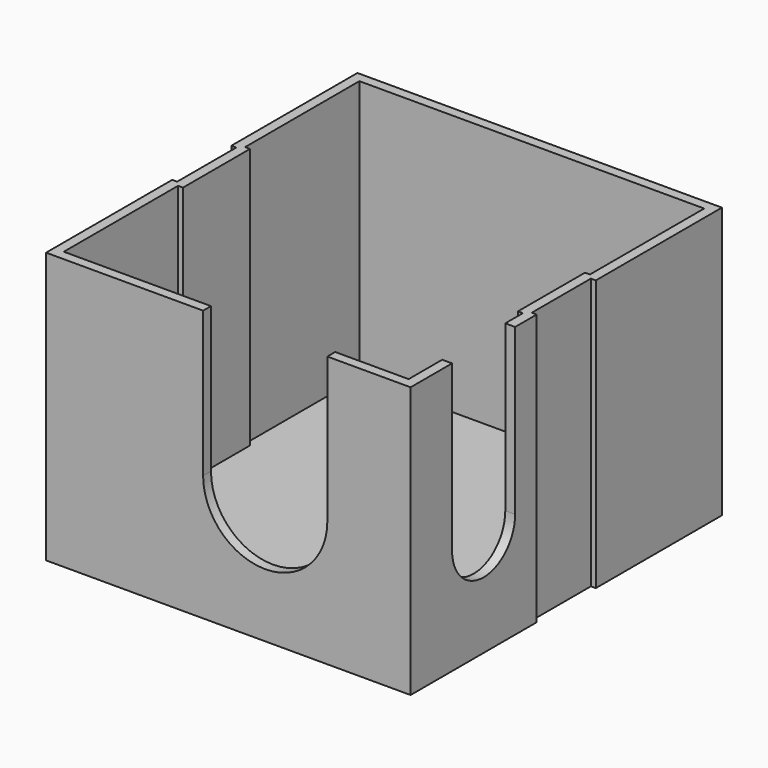
from build123d import *

# Parameters (mm, degrees)
F1_DEPTH = 2
F2_DEPTH = 55
F4_DEPTH = 3
F6_DEPTH = 3


with BuildPart() as f1:
    # F0 (on Top) → F1 (new body)
    with BuildSketch(Plane.XY):
        Polygon((-35, -37.5), (35, -37.5), (35, -8.5), (34, -8.5), (34, 0), (34, 8.5), (35, 8.5), (35, 37.5), (-35, 37.5), (-35, 8.5), (-34, 8.5), (-34, 0), (-34, -8.5), (-35, -8.5), align=None)
    extrude(amount=F1_DEPTH)

    # F0 (on Top) → F2 (join)
    with BuildSketch(Plane.XY):
        Polygon((-37, -39.5), (37, -39.5), (37, -7.5), (36, -7.5), (36, 0), (36, 7.5), (37, 7.5), (37, 39.5), (-37, 39.5), (-37, 7.5), (-36, 7.5), (-36, 0), (-36, -7.5), (-37, -7.5), align=None)
        Polygon((35, -8.5), (35, -37.5), (-35, -37.5), (-35, -8.5), (-34, -8.5), (-34, 0), (-34, 8.5), (-35, 8.5), (-35, 37.5), (35, 37.5), (35, 8.5), (34, 8.5), (34, 0), (34, -8.5), align=None, mode=Mode.SUBTRACT)
    extrude(amount=F2_DEPTH)

    # F3 (on face) → F4 (cut)
    with BuildSketch(Plane.XZ.offset(39.5)):
        with BuildLine():
            Line((-5.120877, 55), (-5.120877, 25.502008))
            ThreePointArc((-5.120877, 25.502008), (7.485725, 12.895406), (20.092327, 25.502008))
            Line((20.092327, 25.502008), (20.092327, 55))
            Line((20.092327, 55), (-5.120877, 55))
        make_face()
    extrude(amount=-F4_DEPTH, mode=Mode.SUBTRACT)

    # F5 (on face) → F6 (cut)
    with BuildSketch(Plane.YZ.offset(37)):
        with BuildLine():
            ThreePointArc((-28.975196, 21.504425), (-20.975196, 13.504425), (-12.975196, 21.504425))
            Line((-12.975196, 21.504425), (-12.975196, 55))
            Line((-12.975196, 55), (-28.975196, 55))
            Line((-28.975196, 55), (-28.975196, 21.504425))
        make_face()
    extrude(amount=-F6_DEPTH, mode=Mode.SUBTRACT)


solid = f1.part
